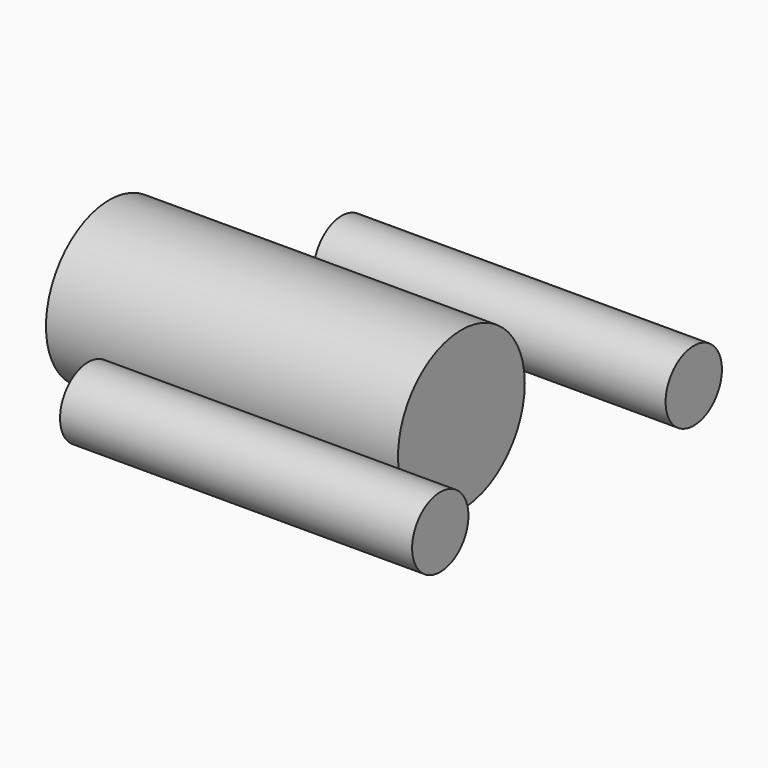
from build123d import *

# Parameters (mm, degrees)
CYLINDER036_R             = 1
CYLINDER036_DEPTH         = 10
CYLINDER035_R             = 1
CYLINDER035_DEPTH         = 10
CYLINDER034_R             = 2.25
CYLINDER034_DEPTH         = 10
FUSION073_ROLL_ANGLE      = 90
FUSION073_PLACEMENT_ANGLE = 90


with BuildPart() as cylinder088:
    # Cylinder036 → Cylinder036 (new body)
    with BuildSketch(Plane(origin=(-4.5, 18, 32), x_dir=(1, 0, 0), z_dir=(0, 0, 1))):
        Circle(CYLINDER036_R)
    extrude(amount=CYLINDER036_DEPTH)


with BuildPart() as mounting_screw_holes001:
    # Cylinder035 → Cylinder035 (new body)
    with BuildSketch(Plane(origin=(4.5, 18, 32), x_dir=(1, 0, 0), z_dir=(0, 0, 1))):
        Circle(CYLINDER035_R)
    extrude(amount=CYLINDER035_DEPTH)

    # Fusion072: union Cylinder088
    add(cylinder088.part)


with BuildPart() as motor_holes_right:
    # Cylinder034 → Cylinder034 (new body)
    with BuildSketch(Plane(origin=(0, 18, 29), x_dir=(1, 0, 0), z_dir=(0, 0, 1))):
        Circle(CYLINDER034_R)
    extrude(amount=CYLINDER034_DEPTH)

    # Fusion073: union Mounting Screw Holes001
    add(mounting_screw_holes001.part)


with BuildPart() as motor_holes_right_1:
    # Fusion073 roll: moved
    add(motor_holes_right.part.rotate(Axis((0, 0, 0), (1, 0, 0)), FUSION073_ROLL_ANGLE))


with BuildPart() as motor_holes_right_2:
    # Fusion073 placement: moved
    add(motor_holes_right_1.part.moved(Location((-79, -7, -3))).rotate(Axis((-79, -7, -3), (0, 0, 1)), FUSION073_PLACEMENT_ANGLE))


solid = motor_holes_right_2.part
